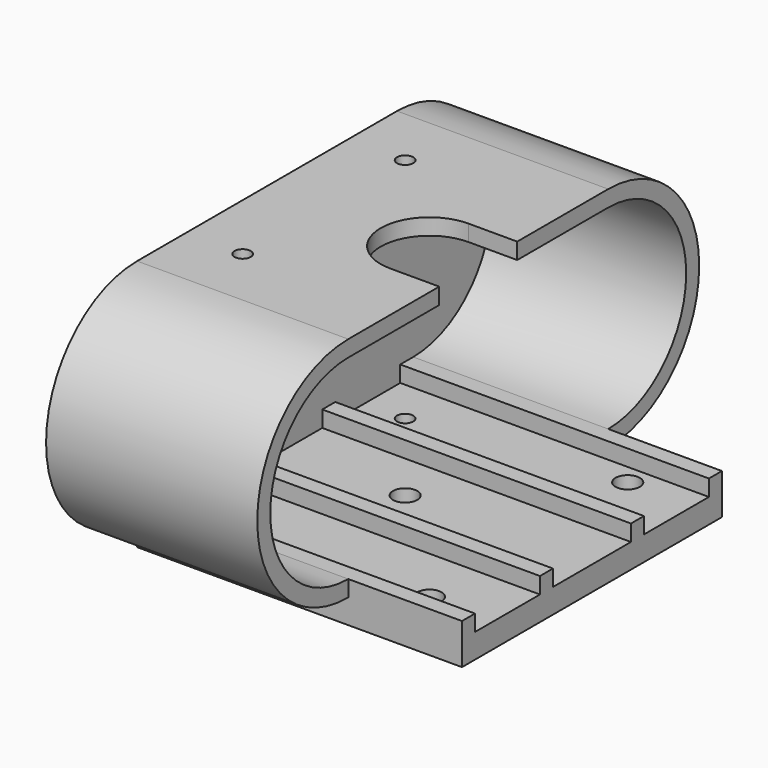
from build123d import *

# Parameters (mm, degrees)
CYLINDER002001001002002001002_R           = 1
CYLINDER002001001002002001002_DEPTH       = 40
CYLINDER002001001002002001002001003_R     = 1.5
CYLINDER002001001002002001002001003_DEPTH = 40
CYLINDER002001001002002001002001002_R     = 1.5
CYLINDER002001001002002001002001002_DEPTH = 40
CYLINDER002001001002002001002001001_R     = 1.5
CYLINDER002001001002002001002001001_DEPTH = 40
CYLINDER002001001002002001002001_R        = 1
CYLINDER002001001002002001002001_DEPTH    = 40
CYLINDER002001001002002001001_R           = 12
CYLINDER002001001002002001001_DEPTH       = 26
CYLINDER002001001002002001001_PITCH_ANGLE = 90
CYLINDER001001001_R                       = 12
CYLINDER001001001_DEPTH                   = 26
CYLINDER001001001_PITCH_ANGLE             = 90
BOX001002001003002001001001001001_W       = 40
BOX001002001003002001001001001001_H       = 10
BOX001002001003002001001001001001_DEPTH   = 3
BOX001002001003002001001001001_W          = 40
BOX001002001003002001001001001_H          = 12
BOX001002001003002001001001001_DEPTH      = 3
BOX001002001003002001001001_W             = 40
BOX001002001003002001001001_H             = 10
BOX001002001003002001001001_DEPTH         = 3
BOX001002001003002001003_W                = 10
BOX001002001003002001003_H                = 12
BOX001002001003002001003_DEPTH            = 4
CYLINDER002001001002003001_R              = 6
CYLINDER002001001002003001_DEPTH          = 4
BOX001002001003002001002_W                = 26
BOX001002001003002001002_H                = 40
BOX001002001003002001002_DEPTH            = 24
CYLINDER001001_R                          = 14
CYLINDER001001_DEPTH                      = 26
CYLINDER001001_PITCH_ANGLE                = 90
CYLINDER002001001002002001_R              = 14
CYLINDER002001001002002001_DEPTH          = 26
CYLINDER002001001002002001_PITCH_ANGLE    = 90
BOX001002001003002001001_W                = 40
BOX001002001003002001001_H                = 40
BOX001002001003002001001_DEPTH            = 5
BOX001002001003002001_W                   = 26
BOX001002001003002001_H                   = 40
BOX001002001003002001_DEPTH               = 28


with BuildPart() as cylinder006:
    # Cylinder002001001002002001002 → Cylinder002001001002002001002 (new body)
    with BuildSketch(Plane(origin=(74, 42.5, 0), x_dir=(1, 0, 0), z_dir=(0, 0, 1))):
        Circle(CYLINDER002001001002002001002_R)
    extrude(amount=CYLINDER002001001002002001002_DEPTH)


with BuildPart() as cylinder0010:
    # Cylinder002001001002002001002001003 → Cylinder002001001002002001002001003 (new body)
    with BuildSketch(Plane(origin=(99, 15, 0), x_dir=(1, 0, 0), z_dir=(0, 0, 1))):
        Circle(CYLINDER002001001002002001002001003_R)
    extrude(amount=CYLINDER002001001002002001002001003_DEPTH)


with BuildPart() as cylinder009:
    # Cylinder002001001002002001002001002 → Cylinder002001001002002001002001002 (new body)
    with BuildSketch(Plane(origin=(99, 45.5, 0), x_dir=(1, 0, 0), z_dir=(0, 0, 1))):
        Circle(CYLINDER002001001002002001002001002_R)
    extrude(amount=CYLINDER002001001002002001002001002_DEPTH)


with BuildPart() as cylinder008:
    # Cylinder002001001002002001002001001 → Cylinder002001001002002001002001001 (new body)
    with BuildSketch(Plane(origin=(84, 30, 0), x_dir=(1, 0, 0), z_dir=(0, 0, 1))):
        Circle(CYLINDER002001001002002001002001001_R)
    extrude(amount=CYLINDER002001001002002001002001001_DEPTH)


with BuildPart() as batteryframeholes:
    # Cylinder002001001002002001002001 → Cylinder002001001002002001002001 (new body)
    with BuildSketch(Plane(origin=(74, 17.5, 0), x_dir=(1, 0, 0), z_dir=(0, 0, 1))):
        Circle(CYLINDER002001001002002001002001_R)
    extrude(amount=CYLINDER002001001002002001002001_DEPTH)

    # Fusion002001002002002001005: union Cylinder006, Cylinder0010, Cylinder009, Cylinder008
    add(cylinder006.part)
    add(cylinder0010.part)
    add(cylinder009.part)
    add(cylinder008.part)


with BuildPart() as cylinder005:
    # Cylinder002001001002002001001 → Cylinder002001001002002001001 (new body)
    with BuildSketch(Plane.XY):
        Circle(CYLINDER002001001002002001001_R)
    extrude(amount=CYLINDER002001001002002001001_DEPTH)


with BuildPart() as cylinder005_1:
    # Cylinder002001001002002001001 pitch: moved
    add(cylinder005.part.rotate(Axis((0, 0, 0), (0, 1, 0)), CYLINDER002001001002002001001_PITCH_ANGLE))


with BuildPart() as cylinder005_2:
    # Cylinder002001001002002001001 placement: moved
    add(cylinder005_1.part.moved(Location((2, 10, 19))))


with BuildPart() as cylinder004:
    # Cylinder001001001 → Cylinder001001001 (new body)
    with BuildSketch(Plane.XY):
        Circle(CYLINDER001001001_R)
    extrude(amount=CYLINDER001001001_DEPTH)


with BuildPart() as cylinder004_1:
    # Cylinder001001001 pitch: moved
    add(cylinder004.part.rotate(Axis((0, 0, 0), (0, 1, 0)), CYLINDER001001001_PITCH_ANGLE))


with BuildPart() as cylinder004_2:
    # Cylinder001001001 placement: moved
    add(cylinder004_1.part.moved(Location((2, 50, 19))))


with BuildPart() as box008:
    # Box001002001003002001001001001001 → Box001002001003002001001001001001 (new body)
    with BuildSketch(Plane(origin=(2, 38, 5), x_dir=(1, 0, 0), z_dir=(0, 0, 1))):
        with Locations((20, 5)):
            Rectangle(BOX001002001003002001001001001001_W, BOX001002001003002001001001001001_H)
    extrude(amount=BOX001002001003002001001001001001_DEPTH)


with BuildPart() as box007:
    # Box001002001003002001001001001 → Box001002001003002001001001001 (new body)
    with BuildSketch(Plane(origin=(2, 24, 5), x_dir=(1, 0, 0), z_dir=(0, 0, 1))):
        with Locations((20, 6)):
            Rectangle(BOX001002001003002001001001001_W, BOX001002001003002001001001001_H)
    extrude(amount=BOX001002001003002001001001001_DEPTH)


with BuildPart() as box006:
    # Box001002001003002001001001 → Box001002001003002001001001 (new body)
    with BuildSketch(Plane(origin=(2, 12, 5), x_dir=(1, 0, 0), z_dir=(0, 0, 1))):
        with Locations((20, 5)):
            Rectangle(BOX001002001003002001001001_W, BOX001002001003002001001001_H)
    extrude(amount=BOX001002001003002001001001_DEPTH)


with BuildPart() as box005:
    # Box001002001003002001003 → Box001002001003002001003 (new body)
    with BuildSketch(Plane(origin=(20, 24, 30), x_dir=(1, 0, 0), z_dir=(0, 0, 1))):
        with Locations((5, 6)):
            Rectangle(BOX001002001003002001003_W, BOX001002001003002001003_H)
    extrude(amount=BOX001002001003002001003_DEPTH)


with BuildPart() as powerbutton001:
    # Cylinder002001001002003001 → Cylinder002001001002003001 (new body)
    with BuildSketch(Plane(origin=(20, 30, 30), x_dir=(1, 0, 0), z_dir=(0, 0, 1))):
        Circle(CYLINDER002001001002003001_R)
    extrude(amount=CYLINDER002001001002003001_DEPTH)


with BuildPart() as fusion002001002002002001004:
    # Box001002001003002001002 → Box001002001003002001002 (new body)
    with BuildSketch(Plane(origin=(2, 10, 7), x_dir=(1, 0, 0), z_dir=(0, 0, 1))):
        with Locations((13, 20)):
            Rectangle(BOX001002001003002001002_W, BOX001002001003002001002_H)
    extrude(amount=BOX001002001003002001002_DEPTH)

    # Fusion002001002002002001004: union Cylinder005, Cylinder004, Box008, Box007, Box006, Box005, PowerButton001
    add(cylinder005_2.part)
    add(cylinder004_2.part)
    add(box008.part)
    add(box007.part)
    add(box006.part)
    add(box005.part)
    add(powerbutton001.part)


with BuildPart() as cylinder002:
    # Cylinder001001 → Cylinder001001 (new body)
    with BuildSketch(Plane.XY):
        Circle(CYLINDER001001_R)
    extrude(amount=CYLINDER001001_DEPTH)


with BuildPart() as cylinder002_1:
    # Cylinder001001 pitch: moved
    add(cylinder002.part.rotate(Axis((0, 0, 0), (0, 1, 0)), CYLINDER001001_PITCH_ANGLE))


with BuildPart() as cylinder002_2:
    # Cylinder001001 placement: moved
    add(cylinder002_1.part.moved(Location((0, 50, 19))))


with BuildPart() as cylinder003:
    # Cylinder002001001002002001 → Cylinder002001001002002001 (new body)
    with BuildSketch(Plane.XY):
        Circle(CYLINDER002001001002002001_R)
    extrude(amount=CYLINDER002001001002002001_DEPTH)


with BuildPart() as cylinder003_1:
    # Cylinder002001001002002001 pitch: moved
    add(cylinder003.part.rotate(Axis((0, 0, 0), (0, 1, 0)), CYLINDER002001001002002001_PITCH_ANGLE))


with BuildPart() as cylinder003_2:
    # Cylinder002001001002002001 placement: moved
    add(cylinder003_1.part.moved(Location((0, 10, 19))))


with BuildPart() as box003:
    # Box001002001003002001001 → Box001002001003002001001 (new body)
    with BuildSketch(Plane(origin=(0, 10, 2), x_dir=(1, 0, 0), z_dir=(0, 0, 1))):
        with Locations((20, 20)):
            Rectangle(BOX001002001003002001001_W, BOX001002001003002001001_H)
    extrude(amount=BOX001002001003002001001_DEPTH)


with BuildPart() as batteryframe2:
    # Box001002001003002001 → Box001002001003002001 (new body)
    with BuildSketch(Plane(origin=(0, 10, 5), x_dir=(1, 0, 0), z_dir=(0, 0, 1))):
        with Locations((13, 20)):
            Rectangle(BOX001002001003002001_W, BOX001002001003002001_H)
    extrude(amount=BOX001002001003002001_DEPTH)

    # Fusion002001002002002001003: union Cylinder002, Cylinder003, Box003
    add(cylinder002_2.part)
    add(cylinder003_2.part)
    add(box003.part)

    # Cut001: cut Fusion002001002002002001004
    add(fusion002001002002002001004.part, mode=Mode.SUBTRACT)


with BuildPart() as batteryframe2_1:
    # Cut001 placement: moved
    add(batteryframe2.part.moved(Location((67, 0, 0))))

    # Cut002: cut BatteryFrameHoles
    add(batteryframeholes.part, mode=Mode.SUBTRACT)


solid = batteryframe2_1.part
